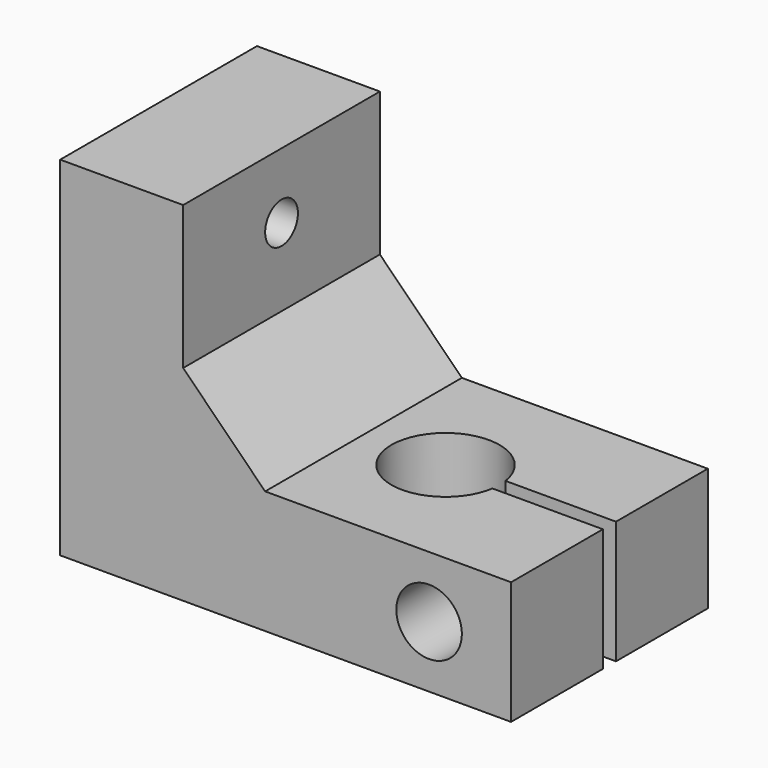
from build123d import *

# Parameters (mm, degrees)
PAD_DEPTH       = 15
PAD001_DEPTH    = 15
SKETCH002_R     = 4
POCKET_DEPTH    = 30
POCKET001_DEPTH = 4
SKETCH004_W     = 15
SKETCH004_H     = 50
PAD002_DEPTH    = 40
PAD003_DEPTH    = 50
SKETCH006_W     = 20
SKETCH006_H     = 5
POCKET002_DEPTH = 15
SKETCH007_W     = 30
SKETCH007_H     = 7.2
POCKET003_DEPTH = 3
SKETCH008_W     = 173.297394
SKETCH008_H     = 63.43742
POCKET004_DEPTH = 100
SKETCH009_W     = 20
SKETCH009_H     = 30
PAD004_DEPTH    = 15
SKETCH010_W     = 15
SKETCH010_H     = 30
PAD005_DEPTH    = 60
SKETCH011_R     = 2.5
POCKET005_DEPTH = 15
PAD006_DEPTH    = 30
SKETCH013_W     = 15
SKETCH013_H     = 20
POCKET006_DEPTH = 30
SKETCH014_R     = 2.5
POCKET007_DEPTH = 15
SKETCH015_R     = 6.7
POCKET008_DEPTH = 15
POCKET009_DEPTH = 4
SKETCH017_R     = 5.75
SKETCH017_R_2   = 4
PAD007_DEPTH    = 4
PAD008_DEPTH    = 15
SKETCH019_W     = 30
SKETCH019_H     = 12.5
POCKET010_DEPTH = 15
SKETCH020_R     = 2.5
POCKET011_DEPTH = 15


with BuildPart() as part:
    # Sketch → Pad (new body)
    with BuildSketch(Plane.XY):
        with BuildLine():
            ThreePointArc((6.422616, 1), (-6.5, 0), (6.422616, -1))
            Line((6.422616, -1), (20, -1))
            Line((20, -1), (20, -15))
            Line((20, -15), (-15, -15))
            Line((-15, -15), (-15, -7.5))
            Line((-30, -7.5), (-15, -7.5))
            Line((-45, -22.5), (-30, -7.5))
            Line((-45, -22.5), (-45, -45))
            Line((-180, -45), (-45, -45))
            Line((-180, 45), (-180, -45))
            Line((-180, 45), (-45, 45))
            Line((-45, 22.5), (-45, 45))
            Line((-45, 22.5), (-30, 7.5))
            Line((-30, 7.5), (-15, 7.5))
            Line((-15, 7.5), (-15, 15))
            Line((-15, 15), (20, 15))
            Line((20, 15), (20, 1))
            Line((6.422616, 1), (20, 1))
        make_face()
        Polygon((-60, 30), (-60, 2.330407), (-60, -7.217157), (-60, -30), (-165, -30), (-165, 30), align=None, mode=Mode.SUBTRACT)
    extrude(amount=PAD_DEPTH)

    # Sketch001 → Pad001 (new body)
    with BuildSketch(Plane.XY.offset(15)):
        Polygon((-165, 30), (-165, 20), (-150, 30), align=None)
        Polygon((-165, -20), (-165, -30), (-150, -30), align=None)
    extrude(amount=-PAD001_DEPTH)

    # Sketch002 → Pocket (cut)
    with BuildSketch(Plane.XZ.offset(15)):
        with Locations((10, 7.5)):
            Circle(SKETCH002_R)
    extrude(amount=-POCKET_DEPTH, mode=Mode.SUBTRACT)

    # Sketch003 → Pocket001 (cut)
    with BuildSketch(Plane.XZ.offset(15)):
        Polygon((12.875, 2.520354), (15.75, 7.5), (12.875, 12.479646), (7.125, 12.479646), (4.25, 7.5), (7.125, 2.520354), align=None)
    extrude(amount=-POCKET001_DEPTH, mode=Mode.SUBTRACT)

    # Sketch004 → Pad002 (new body)
    with BuildSketch(Plane.XY.offset(15)):
        with Locations((-172.5, 0)):
            Rectangle(SKETCH004_W, SKETCH004_H)
    extrude(amount=PAD002_DEPTH)

    # Sketch005 → Pad003 (new body)
    with BuildSketch(Plane(origin=(0, 25, 0), x_dir=(-1, 0, 0), z_dir=(0, 1, 0))):
        Polygon((180, 25), (190, 15), (190, 0), (180, 0), align=None)
    extrude(amount=-PAD003_DEPTH)

    # Sketch006 → Pocket002 (cut)
    with BuildSketch(Plane.YZ.offset(-165)):
        with Locations((0, 33.434408)):
            Rectangle(SKETCH006_W, SKETCH006_H)
    extrude(amount=-POCKET002_DEPTH, mode=Mode.SUBTRACT)

    # Sketch007 → Pocket003 (cut)
    with BuildSketch(Plane.YZ.offset(-165)):
        with Locations((0, 33.791532)):
            Rectangle(SKETCH007_W, SKETCH007_H)
    extrude(amount=-POCKET003_DEPTH, mode=Mode.SUBTRACT)

    # Sketch008 → Pocket004 (cut)
    with BuildSketch(Plane(origin=(0, 45, 0), x_dir=(-1, 0, 0), z_dir=(0, 1, 0))):
        with Locations((116.648697, 31.71871)):
            Rectangle(SKETCH008_W, SKETCH008_H)
    extrude(amount=-POCKET004_DEPTH, mode=Mode.SUBTRACT)

    # Sketch009 → Pad004 (new body)
    with BuildSketch(Plane.XY.offset(15)):
        with Locations((-25, 0)):
            Rectangle(SKETCH009_W, SKETCH009_H)
    extrude(amount=-PAD004_DEPTH)

    # Sketch010 → Pad005 (new body)
    with BuildSketch(Plane.XY.offset(15)):
        with Locations((-27.5, 0)):
            Rectangle(SKETCH010_W, SKETCH010_H)
    extrude(amount=PAD005_DEPTH)

    # Sketch011 → Pocket005 (cut)
    with BuildSketch(Plane.YZ.offset(-20)):
        with Locations((0, 65)):
            Circle(SKETCH011_R)
    extrude(amount=-POCKET005_DEPTH, mode=Mode.SUBTRACT)

    # Sketch012 → Pad006 (new body)
    with BuildSketch(Plane(origin=(0, 15, 0), x_dir=(-1, 0, 0), z_dir=(0, 1, 0))):
        Polygon((10, 15), (20, 25), (20, 15), align=None)
    extrude(amount=-PAD006_DEPTH)

    # Sketch013 → Pocket006 (cut)
    with BuildSketch(Plane.XZ.offset(15)):
        with Locations((-27.5, 65)):
            Rectangle(SKETCH013_W, SKETCH013_H)
    extrude(amount=-POCKET006_DEPTH, mode=Mode.SUBTRACT)

    # Sketch014 → Pocket007 (cut)
    with BuildSketch(Plane.YZ.offset(-20)):
        with Locations((0, 45)):
            Circle(SKETCH014_R)
    extrude(amount=-POCKET007_DEPTH, mode=Mode.SUBTRACT)

    # Sketch015 → Pocket008 (cut)
    with BuildSketch(Plane(origin=(0, 0, 0), x_dir=(1, 0, 0), z_dir=(0, 0, -1))):
        Circle(SKETCH015_R)
    extrude(amount=-POCKET008_DEPTH, mode=Mode.SUBTRACT)

    # Sketch016 → Pocket009 (cut)
    with BuildSketch(Plane(origin=(0, 15, 0), x_dir=(-1, 0, 0), z_dir=(0, 1, 0))):
        Polygon((-5.020354, 4.625), (-5.020354, 10.375), (-10, 13.25), (-14.979646, 10.375), (-14.979646, 4.625), (-10, 1.75), align=None)
    extrude(amount=-POCKET009_DEPTH, mode=Mode.SUBTRACT)

    # Sketch017 → Pad007 (new body)
    with BuildSketch(Plane.XZ.offset(15)):
        with Locations((10, 7.5)):
            Circle(SKETCH017_R)
        with Locations((10, 7.5)):
            Circle(SKETCH017_R_2, mode=Mode.SUBTRACT)
    extrude(amount=-PAD007_DEPTH)

    # Sketch018 → Pad008 (new body)
    with BuildSketch(Plane(origin=(0, 0, 0), x_dir=(1, 0, 0), z_dir=(0, 0, -1))):
        with BuildLine():
            ThreePointArc((6.523803, 1), (-6.6, 0), (6.523803, -1))
            Line((6.523803, -1), (6.726069, -1))
            ThreePointArc((6.726069, 1), (-6.8, 0), (6.726069, -1))
            Line((6.523803, 1), (6.726069, 1))
        make_face()
    extrude(amount=-PAD008_DEPTH)

    # Sketch019 → Pocket010 (cut)
    with BuildSketch(Plane.YZ.offset(-20)):
        with Locations((0, 48.75)):
            Rectangle(SKETCH019_W, SKETCH019_H)
    extrude(amount=-POCKET010_DEPTH, mode=Mode.SUBTRACT)

    # Sketch020 → Pocket011 (cut)
    with BuildSketch(Plane.YZ.offset(-20)):
        with Locations((0, 34.5)):
            Circle(SKETCH020_R)
    extrude(amount=-POCKET011_DEPTH, mode=Mode.SUBTRACT)


solid = part.part
